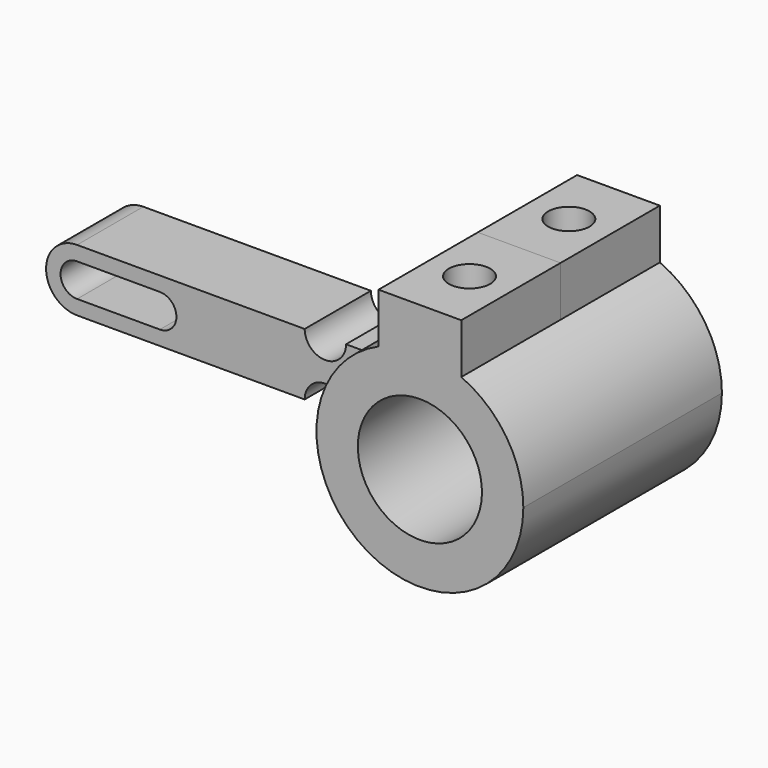
from build123d import *

# Parameters (mm, degrees)
F1_DEPTH = 30
F2_DEPTH = 10
F3_R     = 5
F4_DEPTH = 20.8588644763


with BuildPart() as f1:
    # F0 (on Front) → F1 (new body, symmetric)
    with BuildSketch(Plane.XZ):
        with BuildLine():
            ThreePointArc((-10, 22.9128784748), (-18.5962121384, 16.7087071344), (-23.8484800354, 7.5))
            Line((-23.8484800354, 7.5), (-23.8484800354, -7.5))
            ThreePointArc((-23.8484800354, -7.5), (3.7939424821, -24.7104431454), (25, 0))
            ThreePointArc((25, 0), (20.9165006634, 13.6930639376), (10, 22.9128784748))
            Line((10, 22.9128784748), (10, 15))
            Line((10, 15), (0, 15))
            Line((0, 15), (-10, 15))
            Line((-10, 15), (-10, 22.9128784748))
        make_face()
        with BuildLine():
            ThreePointArc((15, 0), (-10.6066017178, -10.6066017178), (0, 15))
            ThreePointArc((0, 15), (10.6066017178, 10.6066017178), (15, 0))
        make_face(mode=Mode.SUBTRACT)
        with BuildLine():
            ThreePointArc((10, 22.9128784748), (0, 25), (-10, 22.9128784748))
            Line((-10, 22.9128784748), (-10, 15))
            Line((-10, 15), (0, 15))
            Line((0, 15), (10, 15))
            Line((10, 15), (10, 22.9128784748))
        make_face()
        with BuildLine():
            Line((-23.8484800354, -7.5), (-23.8484800354, 7.5))
            ThreePointArc((-23.8484800354, 7.5), (-25, 0), (-23.8484800354, -7.5))
        make_face()
        with BuildLine():
            Line((-10, 35), (-10, 22.9128784748))
            ThreePointArc((-10, 22.9128784748), (0, 25), (10, 22.9128784748))
            Line((10, 22.9128784748), (10, 35))
            Line((10, 35), (-10, 35))
        make_face()
    extrude(amount=F1_DEPTH, both=True)

    # F0 (on Front) → F2 (join, symmetric)
    with BuildSketch(Plane.XZ):
        with BuildLine():
            ThreePointArc((-23.8484800354, -7.5), (-25, 0), (-23.8484800354, 7.5))
            Line((-23.8484800354, 7.5), (-33.8484800354, 7.5))
            ThreePointArc((-33.8484800354, 7.5), (-38.8484800354, 2.5), (-43.8484800354, 7.5))
            Line((-43.8484800354, 7.5), (-98.8484800354, 7.5))
            ThreePointArc((-98.8484800354, 7.5), (-106.3484800354, 0), (-98.8484800354, -7.5))
            Line((-98.8484800354, -7.5), (-43.8484800354, -7.5))
            ThreePointArc((-43.8484800354, -7.5), (-38.8484800354, -2.5), (-33.8484800354, -7.5))
            Line((-33.8484800354, -7.5), (-23.8484800354, -7.5))
        make_face()
        with BuildLine():
            ThreePointArc((-98.8484800354, -4), (-102.8484800354, 0), (-98.8484800354, 4))
            Line((-98.8484800354, 4), (-78.8484800354, 4))
            ThreePointArc((-78.8484800354, 4), (-74.8484800354, 0), (-78.8484800354, -4))
            Line((-78.8484800354, -4), (-98.8484800354, -4))
        make_face(mode=Mode.SUBTRACT)
    extrude(amount=F2_DEPTH, both=True)

    # F3 (on face) → F4 (cut, through all)
    with BuildSketch(Plane.XY.offset(35)):
        with Locations((0, 15)):
            Circle(F3_R)
        with Locations((0, -15)):
            Circle(F3_R)
    extrude(amount=-F4_DEPTH, mode=Mode.SUBTRACT)


solid = f1.part
